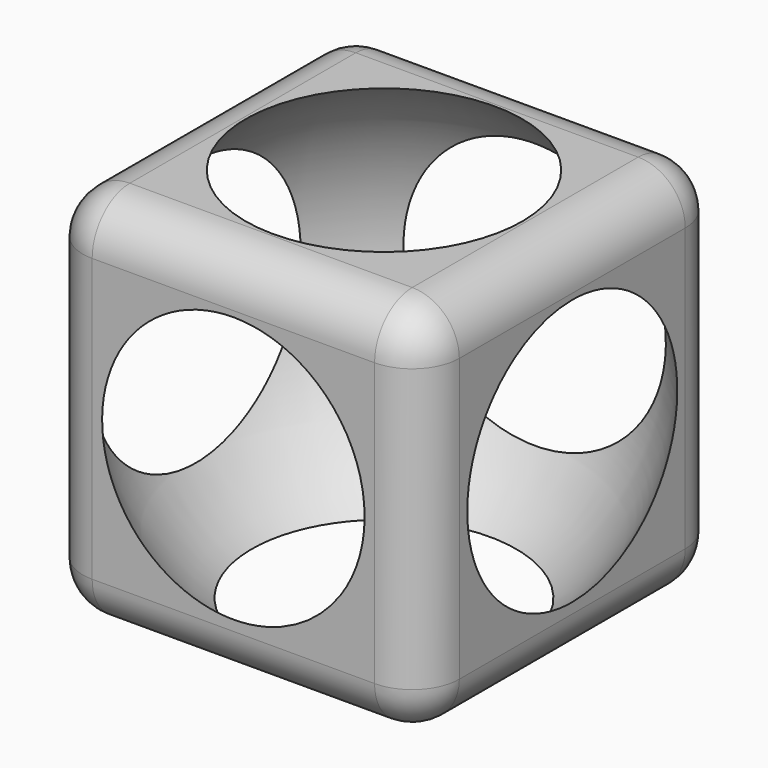
from build123d import *

# Parameters (mm, degrees)
F0_W     = 40
F0_H     = 40
F1_DEPTH = 40
F4_R     = 5


with BuildPart() as f1:
    # F0 (on Top) → F1 (new body)
    with BuildSketch(Plane.XY):
        Rectangle(F0_W, F0_H)
    extrude(amount=F1_DEPTH)

    # F2 (on Front) → F3 (revolve, cut)
    with BuildSketch(Plane.XZ):
        with BuildLine():
            ThreePointArc((0, -4.756929), (24.378702, 20.243071), (0, 45.243071))
            Line((0, 45.243071), (0, -4.756929))
        make_face()
    revolve(axis=Axis((0, 0, 20.243071), (0, 0, -1)), mode=Mode.SUBTRACT)

    # F4
    f4_edges = [f1.edges().sort_by_distance(p)[0] for p in [
        (-20, 0, 40),
        (-20, -20, 20),
        (0, -20, 40),
        (0, -20, 0),
        (-20, 0, 0),
        (0, 20, 0),
        (-20, 20, 20),
        (20, 0, 0),
        (20, 20, 20),
        (20, -20, 20),
        (20, 0, 40),
        (0, 20, 40),
    ]]
    fillet(f4_edges, radius=F4_R)


solid = f1.part
